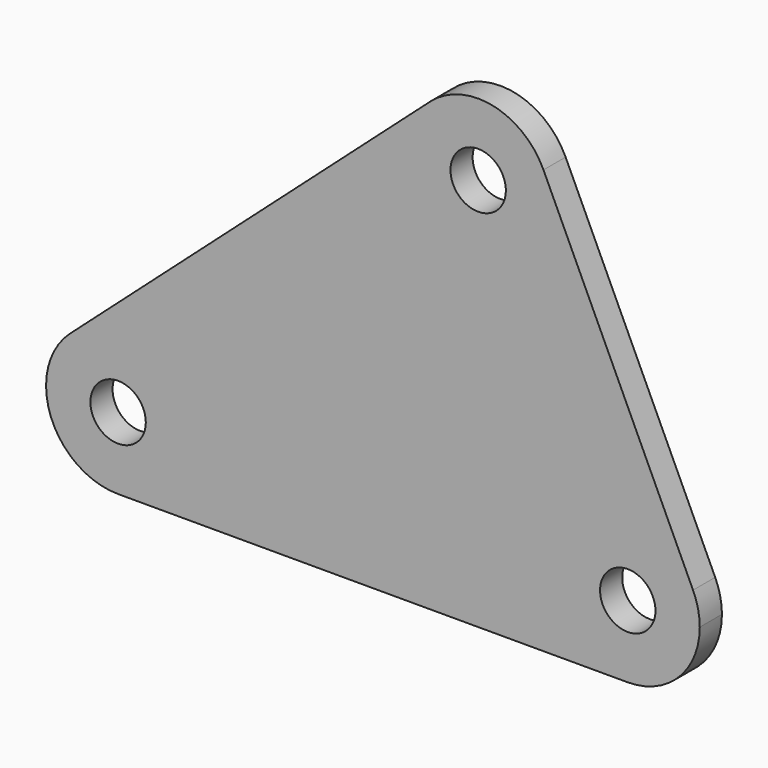
from build123d import *

# Parameters (mm, degrees)
F0_R     = 5
F1_DEPTH = 5


with BuildPart() as f1:
    # F0 (on Front) → F1 (new body)
    with BuildSketch(Plane.XZ):
        with BuildLine():
            ThreePointArc((91.785567, 88.486385), (92.692761, 85.809594), (93, 83))
            ThreePointArc((93, 83), (74.685779, 71.135808), (71.344761, 92.699837))
            Line((71.344761, 92.699837), (6.344761, 34.699837))
            ThreePointArc((6.344761, 34.699837), (20.314221, 36.864192), (28, 25))
            ThreePointArc((28, 25), (24.192388, 15.807612), (15, 12))
            Line((15, 12), (107, 12))
            ThreePointArc((107, 12), (96.03818, 31.988455), (118.785567, 30.486385))
            Line((118.785567, 30.486385), (91.785567, 88.486385))
        make_face()
        with BuildLine():
            ThreePointArc((28, 25), (20.314221, 36.864192), (6.344761, 34.699837))
            ThreePointArc((6.344761, 34.699837), (2.853028, 20.368471), (15, 12))
            ThreePointArc((15, 12), (24.192388, 15.807612), (28, 25))
        make_face()
        with Locations((15, 25)):
            Circle(F0_R, mode=Mode.SUBTRACT)
        with BuildLine():
            ThreePointArc((71.344761, 92.699837), (74.685779, 71.135808), (93, 83))
            ThreePointArc((93, 83), (92.692761, 85.809594), (91.785567, 88.486385))
            ThreePointArc((91.785567, 88.486385), (82.624506, 95.73232), (71.344761, 92.699837))
        make_face()
        with Locations((80, 83)):
            Circle(F0_R, mode=Mode.SUBTRACT)
        with BuildLine():
            ThreePointArc((120, 25), (119.692761, 27.809594), (118.785567, 30.486385))
            ThreePointArc((118.785567, 30.486385), (96.03818, 31.988455), (107, 12))
            ThreePointArc((107, 12), (116.192388, 15.807612), (120, 25))
        make_face()
        with Locations((107, 25)):
            Circle(F0_R, mode=Mode.SUBTRACT)
    extrude(amount=F1_DEPTH)


solid = f1.part
